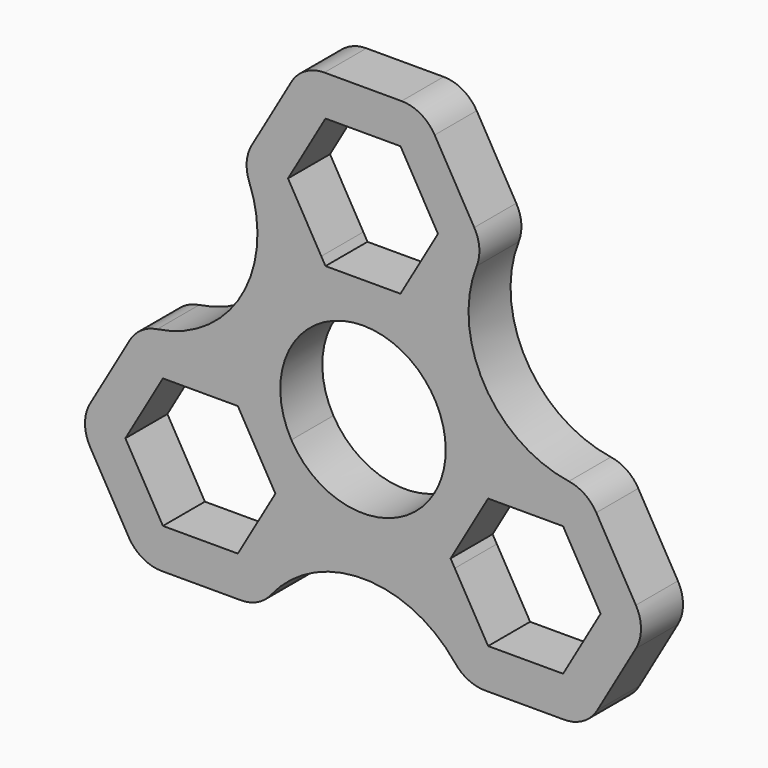
from build123d import *

# Parameters (mm, degrees)
F1_DEPTH = 6.985
F2_R     = 5.08


with BuildPart() as f1:
    # F0 (on Front) → F1 (new body)
    with BuildSketch(Plane.XZ):
        with BuildLine():
            Line((16.1311665212, 24.9682), (10.846794214, 15.8153986779))
            Line((10.846794214, 15.8153986779), (19.1199341331, 1.4859))
            Line((19.1199341331, 1.4859), (29.6886787473, 1.4859))
            ThreePointArc((29.6886787473, 1.4859), (16.1311665212, 9.3133333333), (16.1311665212, 24.9682))
        make_face()
        Polygon((9.988909449, 17.3012986779), (10.846794214, 15.8153986779), (16.1311665212, 24.9682), (8.0655832606, 38.9382), (-8.0655832606, 38.9382), (-16.1311665212, 24.9682), (-10.846794214, 15.8153986779), (-9.988909449, 17.3012986779), (-5.5455063073, 17.3012986779), (-9.9719938494, 24.9682), (-4.9859969247, 33.6042), (4.9859969247, 33.6042), (9.9719938494, 24.9682), (5.5455063073, 17.3012986779), align=None)
        with BuildLine():
            Line((-19.1199341331, 1.4859), (-10.846794214, 15.8153986779))
            Line((-10.846794214, 15.8153986779), (-16.1311665212, 24.9682))
            ThreePointArc((-16.1311665212, 24.9682), (-16.1311665212, 9.3133333333), (-29.6886787473, 1.4859))
            Line((-29.6886787473, 1.4859), (-19.1199341331, 1.4859))
        make_face()
        with BuildLine():
            Line((13.5575122262, -26.4541), (8.2731399191, -17.3012986779))
            Line((8.2731399191, -17.3012986779), (-8.2731399191, -17.3012986779))
            Line((-8.2731399191, -17.3012986779), (-13.5575122262, -26.4541))
            ThreePointArc((-13.5575122262, -26.4541), (0, -18.6266666667), (13.5575122262, -26.4541))
        make_face()
        Polygon((9.988909449, -17.3012986779), (8.2731399191, -17.3012986779), (13.5575122262, -26.4541), (29.6886787473, -26.4541), (37.7542620079, -12.4841), (29.6886787473, 1.4859), (19.1199341331, 1.4859), (19.9778188981, 0), (17.7561173272, -3.8481), (26.6090924115, -3.8481), (31.5950893362, -12.4841), (26.6090924115, -21.1201), (16.637098562, -21.1201), (12.2106110199, -13.4531986779), align=None)
        Polygon((-19.9778188981, 0), (-19.1199341331, 1.4859), (-29.6886787473, 1.4859), (-37.7542620079, -12.4841), (-29.6886787473, -26.4541), (-13.5575122262, -26.4541), (-8.2731399191, -17.3012986779), (-9.988909449, -17.3012986779), (-12.2106110199, -13.4531986779), (-16.637098562, -21.1201), (-26.6090924115, -21.1201), (-31.5950893362, -12.4841), (-26.6090924115, -3.8481), (-17.7561173272, -3.8481), align=None)
        with BuildLine():
            ThreePointArc((0, 10.9982), (7.7769018008, 7.7769018008), (10.9982, 0))
            ThreePointArc((10.9982, 0), (10.6234453514, -2.8465438878), (9.5247203206, -5.4991004769))
            Line((9.5247203206, -5.4991004769), (13.5575122262, 1.4859))
            Line((13.5575122262, 1.4859), (19.1199341331, 1.4859))
            Line((19.1199341331, 1.4859), (10.846794214, 15.8153986779))
            Line((10.846794214, 15.8153986779), (8.0655832606, 10.9982))
            Line((8.0655832606, 10.9982), (0, 10.9982))
        make_face()
        Polygon((-5.4919289656, -12.4841), (-9.5247203821, -5.4991003703), (-13.5575122262, 1.4859), (-19.1199341331, 1.4859), (-19.9778188981, 0), (-17.7561173272, -3.8481), (-16.637098562, -3.8481), (-11.6511016373, -12.4841), (-12.2106110199, -13.4531986779), (-9.988909449, -17.3012986779), (-8.2731399191, -17.3012986779), align=None)
        with BuildLine():
            ThreePointArc((-9.5247203821, -5.4991003703), (-9.5247207028, 5.4990998148), (0, 10.9982))
            Line((0, 10.9982), (-8.0655832606, 10.9982))
            Line((-8.0655832606, 10.9982), (-10.846794214, 15.8153986779))
            Line((-10.846794214, 15.8153986779), (-19.1199341331, 1.4859))
            Line((-19.1199341331, 1.4859), (-13.5575122262, 1.4859))
            Line((-13.5575122262, 1.4859), (-9.5247203821, -5.4991003703))
        make_face()
        Polygon((13.5575122262, 1.4859), (9.5247203206, -5.4991004769), (5.4919289656, -12.4841), (8.2731399191, -17.3012986779), (9.988909449, -17.3012986779), (12.2106110199, -13.4531986779), (11.6511016373, -12.4841), (16.637098562, -3.8481), (17.7561173272, -3.8481), (19.9778188981, 0), (19.1199341331, 1.4859), align=None)
        Polygon((-8.0655832606, 10.9982), (0, 10.9982), (8.0655832606, 10.9982), (10.846794214, 15.8153986779), (9.988909449, 17.3012986779), (5.5455063073, 17.3012986779), (4.9859969247, 16.3322), (-4.9859969247, 16.3322), (-5.5455063073, 17.3012986779), (-9.988909449, 17.3012986779), (-10.846794214, 15.8153986779), align=None)
        with BuildLine():
            Line((5.4919289656, -12.4841), (9.5247203206, -5.4991004769))
            ThreePointArc((9.5247203206, -5.4991004769), (-6.15e-08, -10.9982), (-9.5247203821, -5.4991003703))
            Line((-9.5247203821, -5.4991003703), (-5.4919289656, -12.4841))
            Line((-5.4919289656, -12.4841), (-8.2731399191, -17.3012986779))
            Line((-8.2731399191, -17.3012986779), (8.2731399191, -17.3012986779))
            Line((8.2731399191, -17.3012986779), (5.4919289656, -12.4841))
        make_face()
    extrude(amount=F1_DEPTH)

    # F2
    f2_edges = [f1.edges().sort_by_distance(p)[0] for p in [
        (16.131167, -3.4925, 24.9682),
        (-8.065583, -3.4925, 38.9382),
        (8.065583, -3.4925, 38.9382),
        (-16.131167, -3.4925, 24.9682),
        (-29.688679, -3.4925, 1.4859),
        (-37.754262, -3.4925, -12.4841),
        (-13.557512, -3.4925, -26.4541),
        (-29.688679, -3.4925, -26.4541),
        (13.557512, -3.4925, -26.4541),
        (29.688679, -3.4925, -26.4541),
        (37.754262, -3.4925, -12.4841),
        (29.688679, -3.4925, 1.4859),
    ]]
    fillet(f2_edges, radius=F2_R)


solid = f1.part
